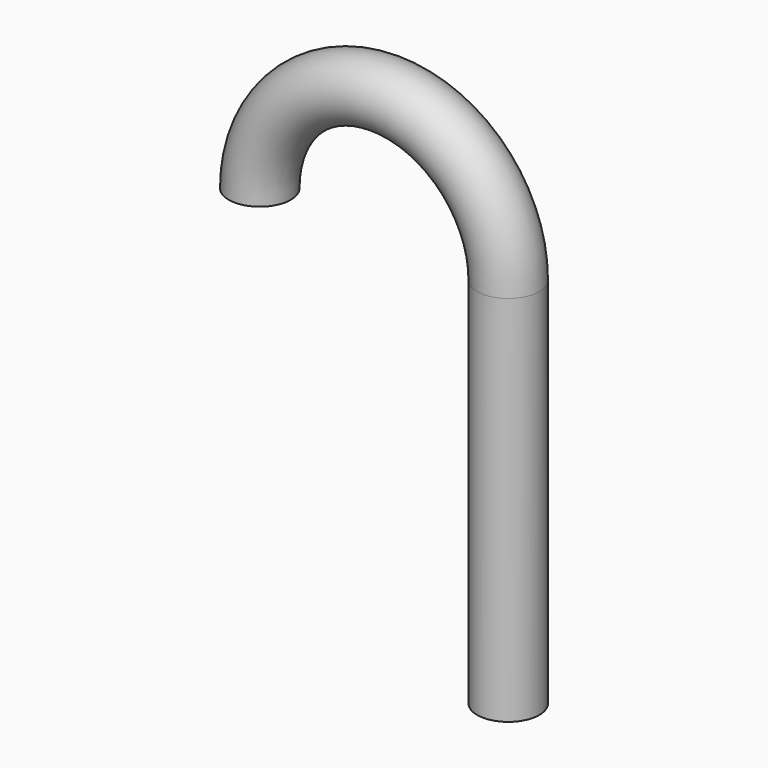
from build123d import *

# Parameters (mm, degrees)
F1_R = 6.35


with BuildPart() as f2:
    # F2: sweep along a path in F0
    with BuildLine(Plane.XZ) as f2_path:
        Line((0, 0), (0, 76.2))
        ThreePointArc((0, 76.2), (-25.4, 101.6), (-50.8, 76.2))
    # F1 (on Top) → F2 (sweep)
    with BuildSketch(Plane.XY):
        Circle(F1_R)
    sweep(path=f2_path.line)


solid = f2.part
